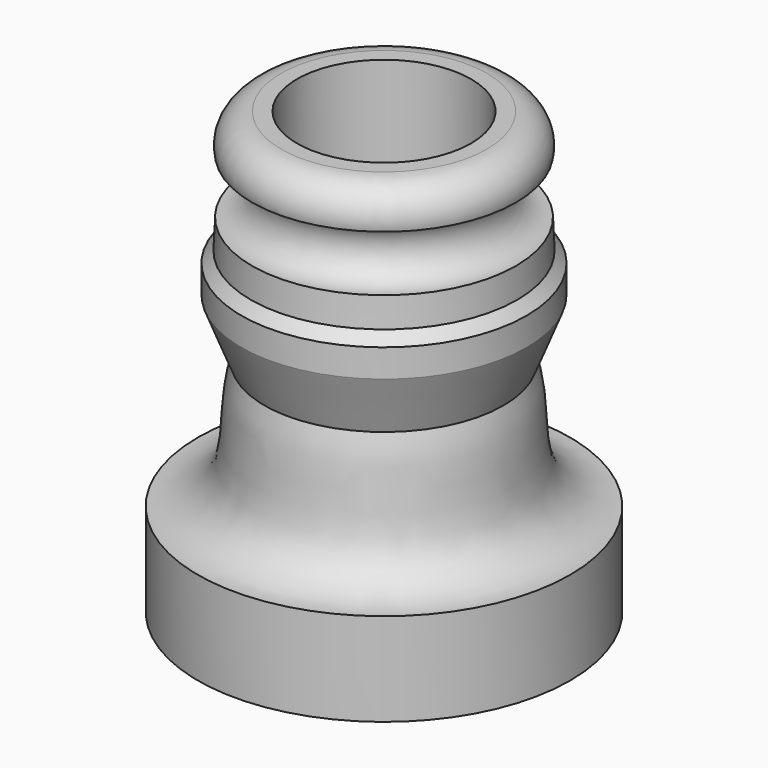
from build123d import *


with BuildPart() as f1:
    # F0 (on Front) → F1 (revolve)
    with BuildSketch(Plane.XZ):
        with BuildLine():
            Line((5.5254005673, 11.8308302508), (4.6795468959, 11.8308302508))
            Line((4.6795468959, 11.8308302508), (4.6795468959, -11.8499544441))
            Line((4.6795468959, -11.8499544441), (10, -11.8499544441))
            Line((10, -11.8499544441), (10, -6.8499544441))
            add(Edge.make_bspline(
                [(6.4229890248, 0), (7.0708356602, -1.9811828896), (6.2549830273, -5.4122342214), (8.9133059577, -6.93354658), (10, -6.8499544441)],
                knots=[0, 0, 0, 0, 0.5636398672, 1, 1, 1, 1], degree=3))
            Line((6.4229890248, 0), (7.6611409076, 3.1500455559))
            Line((7.6611409076, 3.1500455559), (7.6611409076, 4.6500455559))
            Line((7.6611409076, 4.6500455559), (7.1611409076, 5.2375136875))
            Line((7.1611409076, 5.2375136875), (7.0923057811, 6.8197819958))
            ThreePointArc((7.0923057811, 6.8197819958), (5.4851329166, 8.3197819958), (7.0923057811, 9.8197819958))
            ThreePointArc((7.0923057811, 9.8197819958), (6.8001071054, 11.2080658826), (5.5254005673, 11.8308302508))
        make_face()
    revolve(axis=Axis((0, 0, 0.781680822), (0, 0, -1)))


solid = f1.part
